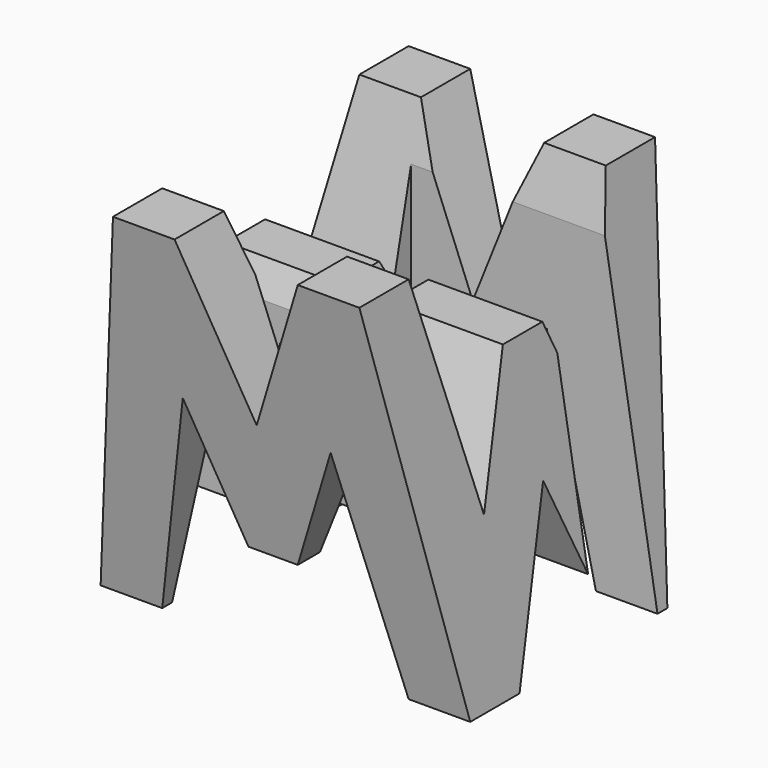
from build123d import *

# Parameters (mm, degrees)
F0_W      = 38.1
F0_H      = 38.1
F1_DEPTH  = 38.1
F6_DEPTH  = 38.1
F8_DEPTH  = 38.1
F9_W      = 25.4
F9_H      = 7.62
F10_DEPTH = 38.1


with BuildPart() as f1:
    # F0 (on Front) → F1 (new body)
    with BuildSketch(Plane.XZ):
        with Locations((19.05, 19.05)):
            Rectangle(F0_W, F0_H)
    extrude(amount=F1_DEPTH)

    # F5 (on offset) → F6 (cut)
    with BuildSketch(Plane.YZ.offset(38.1)):
        Polygon((-11.43, 15.875), (-6.35, 38.1), (-31.75, 38.1), (-26.67, 15.875), (-21.59, 28.575), (-16.51, 28.575), align=None)
        Polygon((-38.1, 0), (-31.75, 0), (-38.1, 38.1), align=None)
        Polygon((-25.4, 0), (-12.7, 0), (-19.05, 15.875), align=None)
        Polygon((-6.35, 0), (0, 0), (0, 38.1), align=None)
    extrude(amount=-F6_DEPTH, mode=Mode.SUBTRACT)

    # F7 (on offset) → F8 (cut)
    with BuildSketch(Plane.XZ.offset(38.1)):
        Polygon((0, 38.1), (0, 0), (6.35, 38.1), align=None)
        Polygon((25.4, 38.1), (12.7, 38.1), (19.05, 22.225), align=None)
        Polygon((31.75, 38.1), (38.1, 0), (38.1, 38.1), align=None)
        Polygon((11.43, 22.225), (6.35, 0), (31.75, 0), (26.67, 22.225), (21.59, 9.525), (16.51, 9.525), align=None)
    extrude(amount=-F8_DEPTH, mode=Mode.SUBTRACT)

    # F9 (on offset) → F10 (cut)
    with BuildSketch(Plane.XY.offset(38.1)):
        with Locations((25.4, -11.43)):
            Rectangle(F9_W, F9_H)
        with Locations((12.7, -26.67)):
            Rectangle(F9_W, F9_H)
    extrude(amount=-F10_DEPTH, mode=Mode.SUBTRACT)


solid = f1.part
